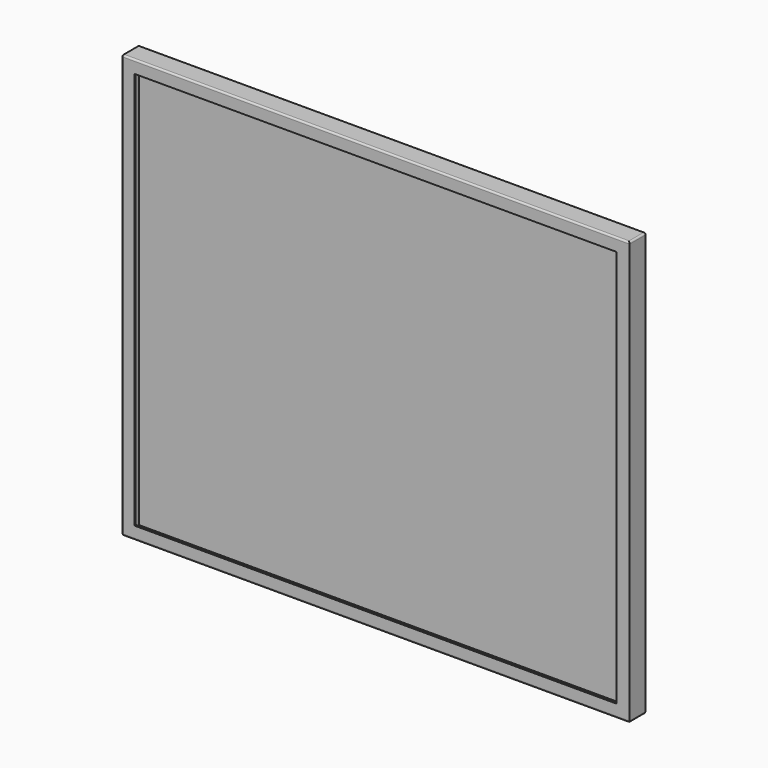
from build123d import *

# Parameters (mm, degrees)
F0_W     = 600
F0_H     = 500
F1_DEPTH = 25
F2_T     = -2
F3_W     = 600
F3_H     = 500
F3_W_2   = 570
F3_H_2   = 470
F4_DEPTH = 2
F5_R     = 2


with BuildPart() as f1:
    # F0 (on Front) → F1 (new body)
    with BuildSketch(Plane.XZ):
        with Locations((0, -50)):
            Rectangle(F0_W, F0_H)
    extrude(amount=-F1_DEPTH)

    # F2
    f2_openings = [f1.faces().sort_by_distance(p)[0] for p in [
        (0, 0, -50),
    ]]
    offset(amount=F2_T, openings=f2_openings)

    # F3 (on Front) → F4 (join)
    with BuildSketch(Plane.XZ):
        with Locations((0, -50)):
            Rectangle(F3_W, F3_H)
        with Locations((0, -50)):
            Rectangle(F3_W_2, F3_H_2, mode=Mode.SUBTRACT)
    extrude(amount=-F4_DEPTH)

    # F5
    f5_edges = [f1.edges().sort_by_distance(p)[0] for p in [
        (-300, 25, -50),
        (0, 25, -300),
        (300, 25, -50),
        (0, 25, 200),
        (-300, 0, -50),
        (0, 0, 200),
        (0, 0, -300),
        (300, 12.5, -300),
        (300, 12.5, 200),
        (-300, 12.5, 200),
        (-300, 12.5, -300),
    ]]
    fillet(f5_edges, radius=F5_R)


solid = f1.part
